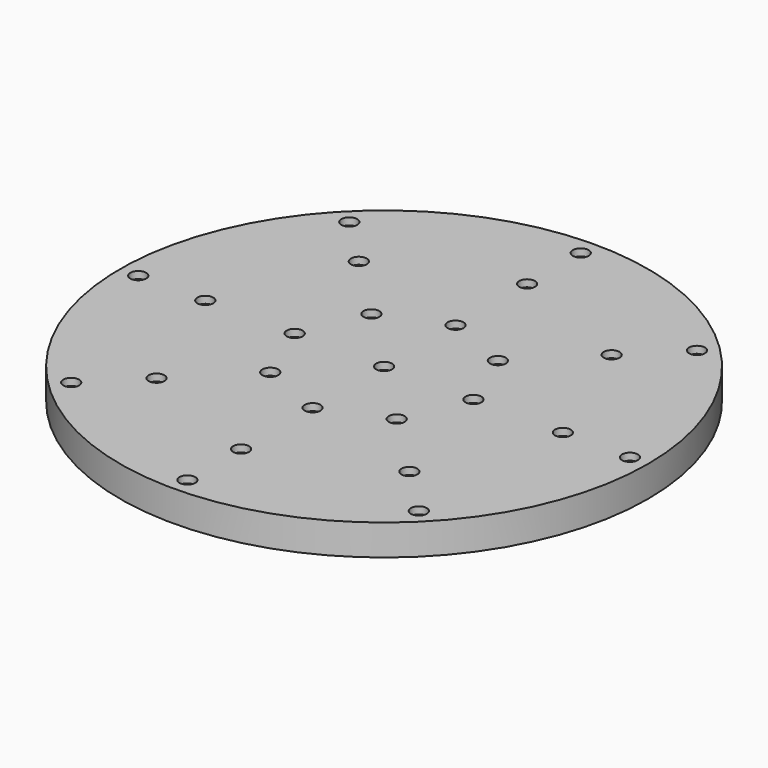
from build123d import *

# Parameters (mm, degrees)
F0_W           = 300
F0_H           = 35
F3_D           = 12.3
F3_DEPTH       = 35
F3_CBORE_D     = 18
F3_CBORE_DEPTH = 8


with BuildPart() as f1:
    # F0 (on Front) → F1 (revolve)
    with BuildSketch(Plane.XZ):
        with Locations((150, 0)):
            Rectangle(F0_W, F0_H)
    revolve(axis=Axis((0, 0, 0), (0, 0, 1)))

    # F3
    with Locations(Plane.XY.offset(17.5)):
        with Locations((-197.565635, 197.565635), (0, 279.4), (197.565635, 197.565635), (279.4, 0), (197.565635, -197.565635), (0, -279.4), (-197.565635, -197.565635), (-279.4, 0), (-203.2, 0), (-143.684098, -143.684098), (0, -203.2), (143.684098, -143.684098), (203.2, 0), (143.684098, 143.684098), (0, 203.2), (-143.684098, 143.684098), (-71.842049, 71.842049), (0, 101.6), (71.842049, 71.842049), (101.6, 0), (71.842049, -71.842049), (0, -101.6), (-71.842049, -71.842049), (-101.6, 0), (0, 0)):
            CounterBoreHole(F3_D / 2, F3_CBORE_D / 2, F3_CBORE_DEPTH, depth=F3_DEPTH)


solid = f1.part
